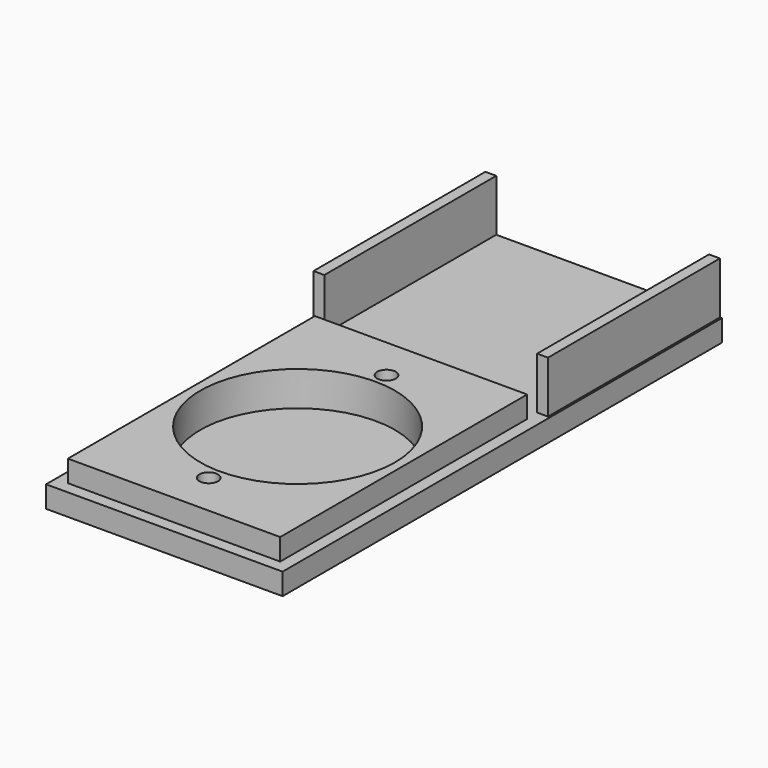
from build123d import *

# Parameters (mm, degrees)
SKETCH_W      = 54.7
SKETCH_H      = 127
PAD_DEPTH     = 5
SKETCH001_W   = 49.1
SKETCH001_H   = 71.4
SKETCH001_R   = 2.15
SKETCH001_R_2 = 22.5
PAD001_DEPTH  = 5
SKETCH002_R   = 2.15
SKETCH002_R_2 = 22.5
POCKET_DEPTH  = 3
SKETCH003_W   = 2.51
SKETCH003_H   = 49.7
PAD002_DEPTH  = 12


with BuildPart() as part:
    # Sketch → Pad (new body)
    with BuildSketch(Plane.XY):
        with Locations((27.35, 63.5)):
            Rectangle(SKETCH_W, SKETCH_H)
    extrude(amount=-PAD_DEPTH)

    # Sketch001 → Pad001 (join)
    with BuildSketch(Plane.XY):
        with Locations((27.35, 38.5)):
            Rectangle(SKETCH001_W, SKETCH001_H)
        with Locations((27.35, 12.823933)):
            Circle(SKETCH001_R, mode=Mode.SUBTRACT)
        with Locations((27.35, 64.223933)):
            Circle(SKETCH001_R, mode=Mode.SUBTRACT)
        with Locations((27.35, 38.523933)):
            Circle(SKETCH001_R_2, mode=Mode.SUBTRACT)
    extrude(amount=PAD001_DEPTH)

    # Sketch002 → Pocket (cut)
    with BuildSketch(Plane.XY):
        with Locations((27.35, 12.823933)):
            Circle(SKETCH002_R)
        with Locations((27.35, 64.223933)):
            Circle(SKETCH002_R)
        with Locations((27.35, 38.523933)):
            Circle(SKETCH002_R_2)
    extrude(amount=-POCKET_DEPTH, mode=Mode.SUBTRACT)

    # Sketch003 → Pad002 (join)
    with BuildSketch(Plane.XY):
        with Locations((1.255, 102.15)):
            Rectangle(SKETCH003_W, SKETCH003_H)
        with Locations((52.979469, 102.15)):
            Rectangle(SKETCH003_W, SKETCH003_H)
    extrude(amount=PAD002_DEPTH)


solid = part.part
